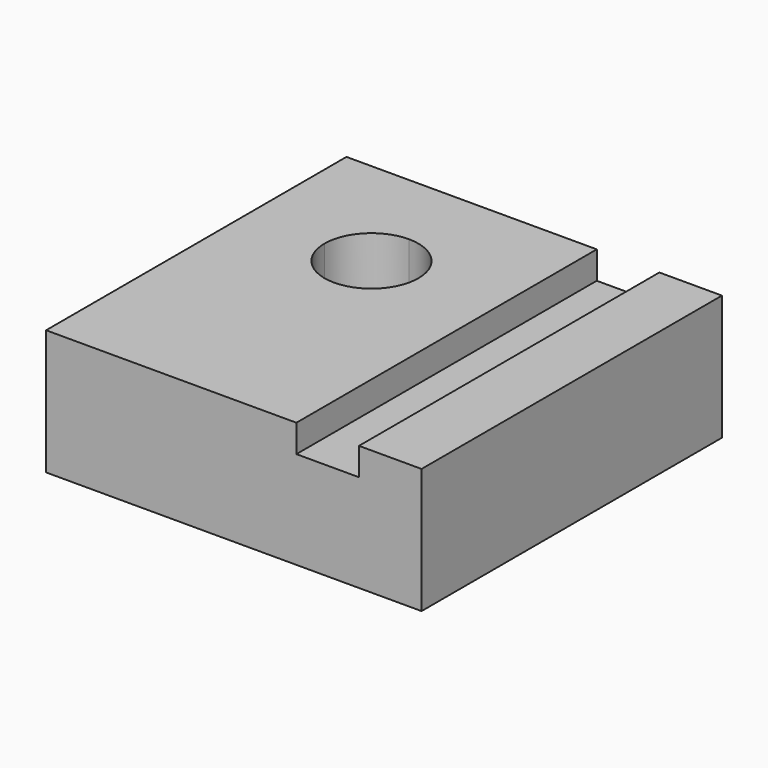
from build123d import *

# Parameters (mm, degrees)
F1_DEPTH = 76.2
F3_DEPTH = 25.4


with BuildPart() as f1:
    # F0 (on Front) → F1 (new body)
    with BuildSketch(Plane.XZ):
        Polygon((-38.1, -12.7), (38.1, -12.7), (38.1, 12.7), (25.4, 12.7), (25.4, 7.089494), (12.7, 7.089494), (12.7, 12.7), (-38.1, 12.7), align=None)
    extrude(amount=F1_DEPTH)

    # F2 (on face) → F3 (cut)
    with BuildSketch(Plane.XY.offset(12.7)):
        with BuildLine():
            ThreePointArc((-3.175, -25.4), (-5.964808, -18.664808), (-12.7, -15.875))
            Line((-12.7, -15.875), (-12.7, -25.4))
            Line((-12.7, -25.4), (-22.225, -25.4))
            ThreePointArc((-22.225, -25.4), (-12.7, -34.925), (-3.175, -25.4))
        make_face()
        with BuildLine():
            Line((-12.7, -25.4), (-12.7, -15.875))
            ThreePointArc((-12.7, -15.875), (-19.435192, -18.664808), (-22.225, -25.4))
            Line((-22.225, -25.4), (-12.7, -25.4))
        make_face()
    extrude(amount=-F3_DEPTH, mode=Mode.SUBTRACT)


solid = f1.part
